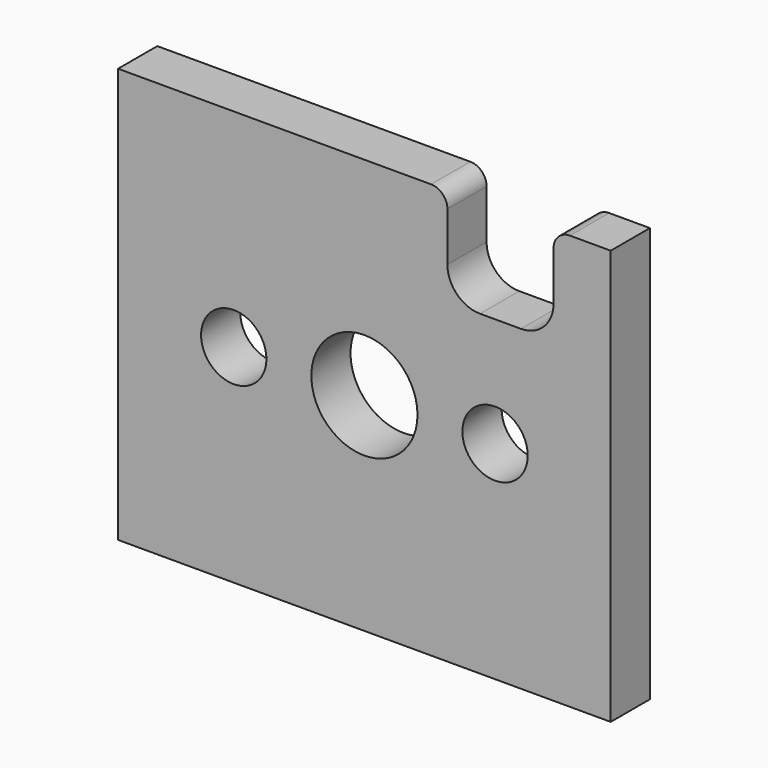
from build123d import *

# Parameters (mm, degrees)
F0_R     = 2
F1_DEPTH = 3


with BuildPart() as f1:
    # F0 (on Front) → F1 (new body)
    with BuildSketch(Plane.XZ):
        with BuildLine():
            Line((-15.08125, -12.7), (15.08125, -12.7))
            Line((15.08125, -12.7), (15.08125, 12.7))
            Line((15.08125, 12.7), (12.58125, 12.7))
            ThreePointArc((12.58125, 12.7), (11.8741432188, 12.4071067812), (11.58125, 11.7))
            Line((11.58125, 11.7), (11.58125, 8.7))
            ThreePointArc((11.58125, 8.7), (10.9954635624, 7.2857864376), (9.58125, 6.7))
            Line((9.58125, 6.7), (7.08125, 6.7))
            ThreePointArc((7.08125, 6.7), (5.6670364376, 7.2857864376), (5.08125, 8.7))
            Line((5.08125, 8.7), (5.08125, 11.7))
            ThreePointArc((5.08125, 11.7), (4.7883567812, 12.4071067812), (4.08125, 12.7))
            Line((4.08125, 12.7), (-15.08125, 12.7))
            Line((-15.08125, 12.7), (-15.08125, -12.7))
        make_face()
        with Locations((-8, 0)):
            Circle(F0_R, mode=Mode.SUBTRACT)
        with BuildLine():
            ThreePointArc((-3.25, 0), (0, 3.25), (3.25, 0))
            ThreePointArc((3.25, 0), (0, -3.25), (-3.25, 0))
        make_face(mode=Mode.SUBTRACT)
        with BuildLine():
            ThreePointArc((10, 0), (8, -2), (6, 0))
            ThreePointArc((6, 0), (8, 2), (10, 0))
        make_face(mode=Mode.SUBTRACT)
    extrude(amount=F1_DEPTH)


solid = f1.part
